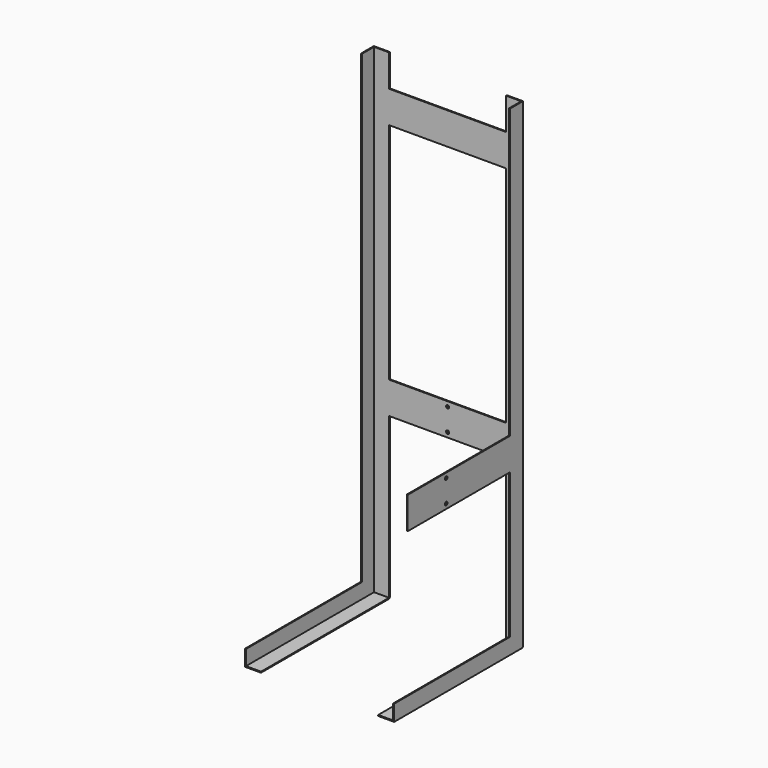
from build123d import *

# Parameters (mm, degrees)
F1_DEPTH  = 1500
F3_DEPTH  = 50
F5_DEPTH  = 500
F6_W      = 3
F6_H      = 100
F9_DEPTH  = 366
F10_R     = 5
F11_DEPTH = 25
F12_W     = 3
F12_H     = 100
F13_DEPTH = 400
F14_R     = 5
F15_DEPTH = 25


with BuildPart() as f1:
    # F0 (on Top) → F1 (new body)
    with BuildSketch(Plane.XY):
        Polygon((-183, 225), (-233, 225), (-233, 175), (-230, 175), (-230, 222), (-183, 222), align=None)
    extrude(amount=F1_DEPTH)

    # F2 (on face) → F3 (join)
    with BuildSketch(Plane.YZ.offset(-183)):
        Polygon((225, 0), (222, 0), (222, -3), align=None)
    extrude(amount=-F3_DEPTH)

    # F4 (on face) → F5 (join)
    with BuildSketch(Plane.XZ.offset(-222)):
        Polygon((-233, 47), (-233, -3), (-183, -3), (-183, 0), (-230, 0), (-230, 47), align=None)
    extrude(amount=F5_DEPTH)


with BuildPart() as f8_1:
    # F8: instance of F1
    add(f1.part.mirror(Plane(origin=(0, 140.5122887865, 581.4877112135), x_dir=(0, 1, 0), z_dir=(1, 0, 0))))


with BuildPart() as f1_1:
    add(f1.part)

    add(f8_1.part)  # F9 merges F8_1
    # F6 (on face) → F9 (join, through all)
    with BuildSketch(Plane.YZ.offset(-183)):
        with Locations((223.5, 1350)):
            Rectangle(F6_W, F6_H)
        with Locations((223.5, 550)):
            Rectangle(F6_W, F6_H)
    extrude(amount=F9_DEPTH)

    # F10 (on face) → F11 (cut)
    with BuildSketch(Plane.XZ.offset(-222)):
        with Locations((0, 585)):
            Circle(F10_R)
        with Locations((0, 515)):
            Circle(F10_R)
    extrude(amount=-F11_DEPTH, mode=Mode.SUBTRACT)

    # F12 (on face) → F13 (join)
    with BuildSketch(Plane.XZ.offset(-175)):
        with Locations((231.5, 550)):
            Rectangle(F12_W, F12_H)
    extrude(amount=F13_DEPTH)

    # F14 (on face) → F15 (cut)
    with BuildSketch(Plane.YZ.offset(233)):
        with Locations((-75, 585)):
            Circle(F14_R)
        with Locations((-75, 515)):
            Circle(F14_R)
    extrude(amount=-F15_DEPTH, mode=Mode.SUBTRACT)


solid = f1_1.part
